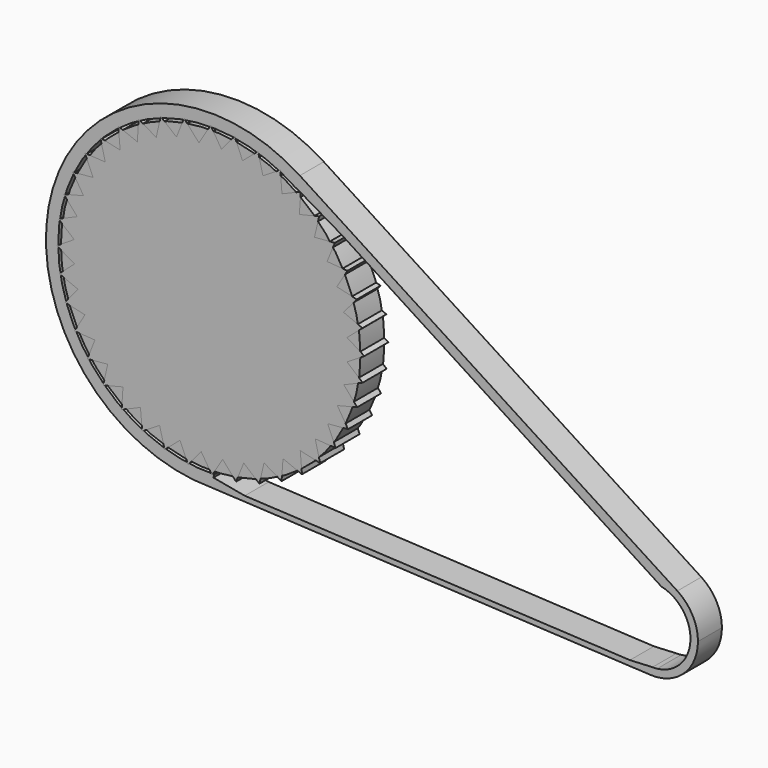
from build123d import *

# Parameters (mm, degrees)
F0_R     = 50
F1_DEPTH = 10
F3_DEPTH = 10
F5_DEPTH = 10


with BuildPart() as f1:
    # F0 (on Front) → F1 (new body)
    with BuildSketch(Plane.XZ):
        Circle(F0_R)
    extrude(amount=F1_DEPTH)


with BuildPart() as f3:
    # F2 (on Front) → F3 (new body)
    with BuildSketch(Plane.XZ):
        with BuildLine():
            ThreePointArc((150.4044612389, -35.2406215734), (157.4315771407, -39.6244300326), (160.1755025209, -47.4390962451))
            ThreePointArc((160.1755025209, -47.4390962451), (156.99167071, -55.7733034822), (149.0620608774, -59.8619564602))
            ThreePointArc((149.0620608774, -59.8619564602), (148.2829455049, -59.9243280419), (147.5014551334, -59.9378844866))
            Line((147.5014551334, -59.9378844866), (139.9633135414, -60.3046370866))
            ThreePointArc((139.9633135414, -60.3046370866), (143.31101217, -61.7900970456), (146.9189057568, -62.4200028043))
            ThreePointArc((146.9189057568, -62.4200028043), (158.0111459101, -58.3099046663), (162.6755025209, -47.4390962451))
            ThreePointArc((162.6755025209, -47.4390962451), (160.8423395216, -40.2533879714), (155.7909154015, -34.8240229684))
            ThreePointArc((155.7909154015, -34.8240229684), (151.1752111055, -32.8530741752), (146.1677048631, -32.5150704403))
            Line((146.1677048631, -32.5150704403), (150.4044612389, -35.2406215734))
        make_face()
        with BuildLine():
            Line((43.6890888609, 33.4105299944), (146.1677048631, -32.5150704403))
            ThreePointArc((146.1677048631, -32.5150704403), (151.1752111055, -32.8530741752), (155.7909154015, -34.8240229684))
            Line((155.7909154015, -34.8240229684), (29.7565138957, 46.2552686813))
            ThreePointArc((29.7565138957, 46.2552686813), (37.280168576, 40.43747063), (43.6890888609, 33.4105299944))
        make_face()
        with BuildLine():
            ThreePointArc((146.9189057568, -62.4200028043), (143.31101217, -61.7900970456), (139.9633135414, -60.3046370866))
            Line((139.9633135414, -60.3046370866), (11.3767673734, -53.8104930672))
            ThreePointArc((11.3767673734, -53.8104930672), (5.7193916331, -54.7018149548), (0, -55))
            Line((0, -55), (146.9189057568, -62.4200028043))
        make_face()
        with BuildLine():
            Line((28.5765499261, 42.2400950895), (43.6890888609, 33.4105299944))
            ThreePointArc((43.6890888609, 33.4105299944), (37.280168576, 40.43747063), (29.7565138957, 46.2552686813))
            Line((29.7565138957, 46.2552686813), (28.5765499261, 42.2400950895))
        make_face()
        with BuildLine():
            ThreePointArc((0, -55), (5.7193916331, -54.7018149548), (11.3767673734, -53.8104930672))
            Line((11.3767673734, -53.8104930672), (0.9117916884, -51.897361273))
            Line((0.9117916884, -51.897361273), (0, -55))
        make_face()
        with BuildLine():
            Line((28.5765499261, 42.2400950895), (29.7565138957, 46.2552686813))
            ThreePointArc((29.7565138957, 46.2552686813), (-52.768550186, 15.5074211675), (0, -55))
            Line((0, -55), (0.9117916884, -51.897361273))
            Line((0.9117916884, -51.897361273), (1.212866517, -50.8728658376))
            ThreePointArc((1.212866517, -50.8728658376), (-48.8227308396, 14.3478387601), (28.5436473787, 42.1281345189))
            Line((28.5436473787, 42.1281345189), (28.5765499261, 42.2400950895))
        make_face()
    extrude(amount=F3_DEPTH)


with BuildPart() as f5:
    # F4 (on Front) → F5 (new body)
    with BuildSketch(Plane.XZ):
        Polygon((0, 51.3314977288), (-3.9317328197, 44.9399117696), (-8.9136210375, 50.5516569371), (-11.423403875, 44.2118342568), (-16.6901789612, 48.5423586708), (-18.1802732615, 41.8886393737), (-24.0581028646, 45.3445734972), (-24.4920259018, 38.5398639291), (-30.8370001723, 41.036594394), (-30.2041279911, 34.2474976712), (-36.8608997426, 35.7238957737), (-35.1767272699, 29.1166327555), (-41.9823154217, 29.5365511005), (-39.2880770967, 23.2728907205), (-46.0758570217, 22.6260482366), (-42.4375172321, 16.8593468324), (-49.0413003108, 15.1615804885), (-44.5479383542, 10.0330271023), (-50.8060408542, 7.325904163), (-45.5676699643, 2.9610637388), (-51.3268716242, -0.6891359474), (-45.4717454622, -4.1833968329), (-50.59104086, -8.6873035969), (-44.2625134156, -11.2254332023), (-48.6165642751, -16.4727756364), (-41.9695800589, -17.9926316619), (-45.4517839698, -23.8549364503), (-38.6490844293, -24.3193074988), (-41.1741848471, -30.6530448937), (-34.3823238862, -30.0505615359), (-35.8884975114, -36.700659469), (-29.2737636675, -35.0460726071), (-29.7241340958, -41.8497133961), (-23.4484792145, -39.1835331099), (-22.832019801, -45.9741398059), (-17.0490938873, -42.3616435241), (-15.3808977169, -48.9729582985), (-10.2322870458, -44.502592579), (-7.5531974018, -50.7727472971), (-3.1649579898, -45.5539623454), (0.4594316326, -51.3294416652), (3.9798603195, -45.49001161), (8.460812172, -50.6294115754), (11.0272377131, -44.3123061109), (16.2550424046, -48.6897962155), (17.8046297165, -42.0496802021), (23.6512922834, -45.5580841609), (24.146102043, -38.7575308885), (30.468475714, -41.310950688), (29.8963932458, -34.5164615124), (36.5396841763, -36.0523804954), (34.9147160622, -29.4303083018), (41.7162732291, -29.9111217937), (39.0782043783, -23.6235980962), (45.8715018472, -23.0375340992), (42.2849214221, -17.238499493), (48.9036354846, -15.5999069058), (44.4563555322, -10.4313420631), (50.7384368933, -7.7803393696), (45.5393423986, -3.3687888549), (51.3309837103, 0.2297181166), (45.5073667107, 3.7762440999), (50.6667683148, 8.234151299), (44.3612113454, 10.828821377), (48.7620530254, 16.0369836264), (42.1289381991, 17.6162711905), (45.6634719415, 23.4471744424), (38.8652011347, 23.9724130034), (41.4468891775, 30.2832963297), (34.6499078631, 29.7416262084), (36.2155414436, 36.3779770883), (29.5862635232, 34.782660266), (30.0975104493, 41.5819975932), (23.7982438584, 38.9720930116), (23.2425870152, 45.767945201), (17.4275598562, 42.2073524626), (15.8186036689, 48.8333332576), (10.6301881676, 44.4092281397), (8.0073255173, 50.7031103301), (3.5725522519, 45.5238104167), align=None)
    extrude(amount=F5_DEPTH)


solid = Compound([f1.part, f3.part, f5.part])
